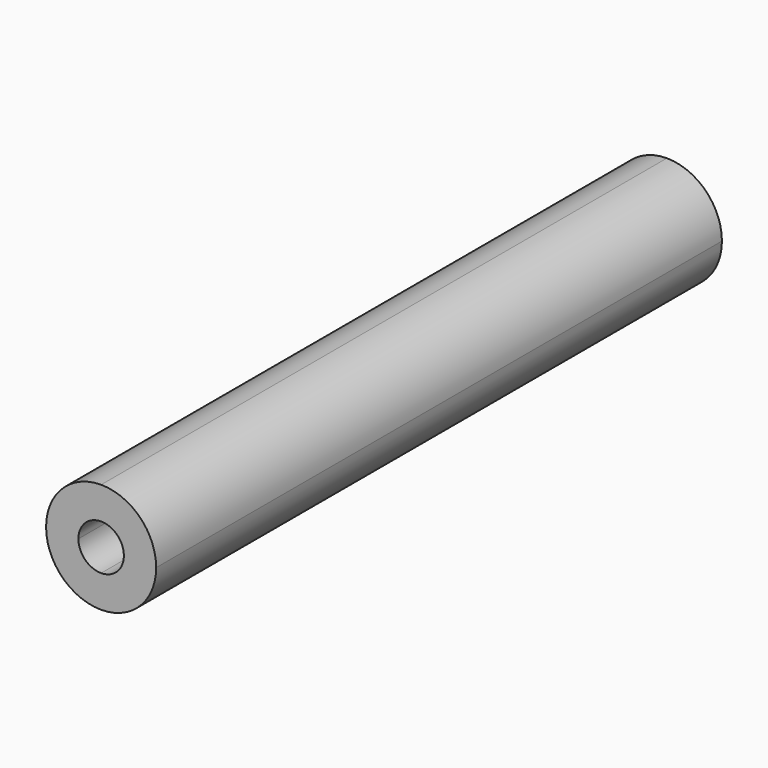
from build123d import *

# Parameters (mm, degrees)
F1_DEPTH = 76.2


with BuildPart() as f1:
    # F0 (on Front) → F1 (new body)
    with BuildSketch(Plane.XZ):
        with BuildLine():
            ThreePointArc((-2.451287, 0), (-1.733322, 1.733322), (0, 2.451287))
            Line((0, 2.451287), (0, 5.930875))
            ThreePointArc((0, 5.930875), (-4.193762, 4.193762), (-5.930875, 0))
            Line((-5.930875, 0), (-2.451287, 0))
        make_face()
        with BuildLine():
            ThreePointArc((0, 2.451287), (1.733322, 1.733322), (2.451287, 0))
            Line((2.451287, 0), (5.930875, 0))
            ThreePointArc((5.930875, 0), (4.193762, 4.193762), (0, 5.930875))
            Line((0, 5.930875), (0, 2.451287))
        make_face()
        with BuildLine():
            Line((0, -5.930875), (0, -2.451287))
            ThreePointArc((0, -2.451287), (-1.733322, -1.733322), (-2.451287, 0))
            Line((-2.451287, 0), (-5.930875, 0))
            ThreePointArc((-5.930875, 0), (-4.193762, -4.193762), (0, -5.930875))
        make_face()
        with BuildLine():
            Line((5.930875, 0), (2.451287, 0))
            ThreePointArc((2.451287, 0), (1.733322, -1.733322), (0, -2.451287))
            Line((0, -2.451287), (0, -5.930875))
            ThreePointArc((0, -5.930875), (4.193762, -4.193762), (5.930875, 0))
        make_face()
    extrude(amount=-F1_DEPTH)


solid = f1.part
